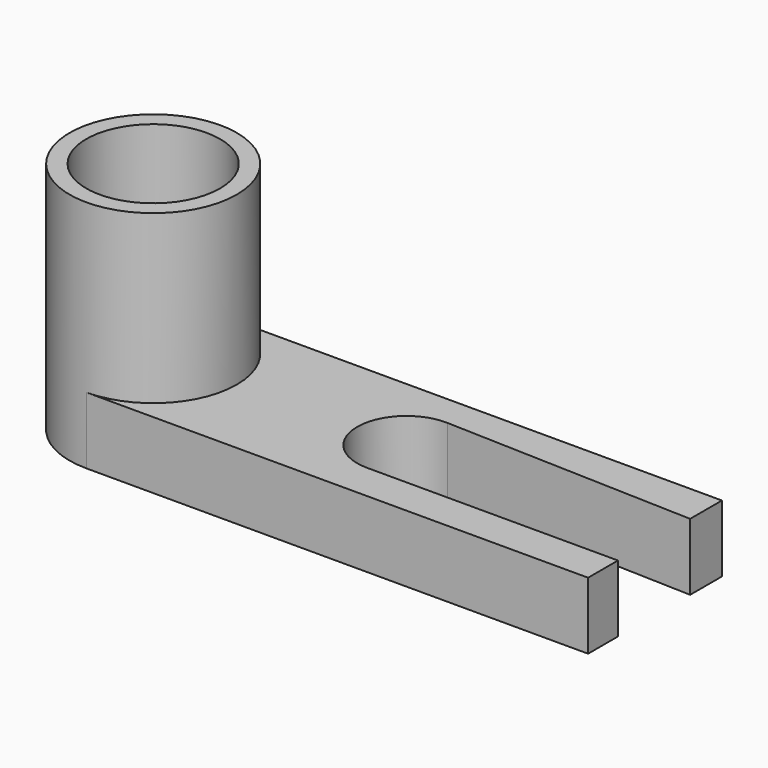
from build123d import *

# Parameters (mm, degrees)
F0_W     = 1905
F0_H     = 635
F1_DEPTH = 127
F2_R     = 317.5
F3_DEPTH = 127
F4_DEPTH = 127
F5_DEPTH = 508
F6_R     = 254
F7_DEPTH = 635
F9_DEPTH = 254.001


with BuildPart() as f1:
    # F0 (on Top) → F1 (new body, symmetric)
    with BuildSketch(Plane.XY):
        with Locations((177.6640671305, 114.6936982827)):
            Rectangle(F0_W, F0_H)
    extrude(amount=F1_DEPTH, both=True)

    # F2 (on face) → F3 (join, symmetric)
    with BuildSketch(Plane.XY.offset(127)):
        with Locations((-774.8359328695, 114.6936982827)):
            Circle(F2_R)
    extrude(amount=F3_DEPTH, both=True)

    # F4 (add): a face of the model
    f4_faces = [f1.faces().sort_by_distance(p)[0] for p in [
        (-909.5871180206, 114.6936982827, 0),
    ]]
    extrude(f4_faces, amount=F4_DEPTH)

    # F5 (add): a face of the model
    f5_faces = [f1.faces().sort_by_distance(p)[0] for p in [
        (-774.8359328695, 114.6936982827, 254),
    ]]
    extrude(f5_faces, amount=F5_DEPTH)

    # F6 (on face) → F7 (cut)
    with BuildSketch(Plane.XY.offset(762)):
        with Locations((-774.8359328695, 114.6936982827)):
            Circle(F6_R)
    extrude(amount=-F7_DEPTH, mode=Mode.SUBTRACT)

    # F8 (on face) → F9 (cut, through all)
    with BuildSketch(Plane.XY.offset(127)):
        with BuildLine():
            Line((1130.1640671305, 281.3425958157), (183.8743803286, 312.780909445))
            ThreePointArc((183.8743803286, 312.780909445), (-9.3430063716, 128.9567688771), (177.6640671305, -61.1816744713))
            Line((177.6640671305, -61.1816744713), (1130.1640671305, -61.1816744713))
            Line((1130.1640671305, -61.1816744713), (1130.1640671305, 281.3425958157))
        make_face()
    extrude(amount=-F9_DEPTH, mode=Mode.SUBTRACT)


solid = f1.part
